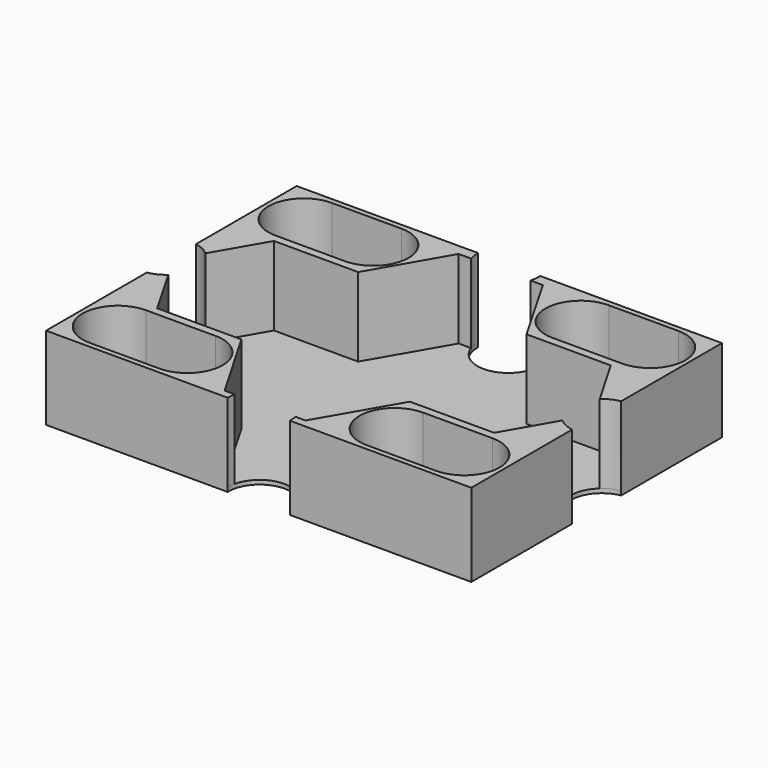
from build123d import *

# Parameters (mm, degrees)
SKETCH003_W          = 205
SKETCH003_H          = 151
PAD001_DEPTH         = 40
POCKET002_DEPTH      = 38
SKETCH005_R          = 15
POCKET003_DEPTH      = 2.001
POCKET003_DEPTH_BACK = 38.001
POCKET004_DEPTH      = 38


with BuildPart() as part:
    # Sketch003 → Pad001 (new body)
    with BuildSketch(Plane.XY):
        Rectangle(SKETCH003_W, SKETCH003_H)
    extrude(amount=PAD001_DEPTH)

    # Sketch004 (on Face6 of Pad001) → Pocket002 (cut)
    with BuildSketch(Plane.XY.offset(40)):
        Polygon((-101.5, 0), (-81.2, 35.160631), (-40.6, 35.160631), (-20.3, 70.321263), (20.3, 70.321263), (40.6, 35.160631), (81.2, 35.160631), (101.5, 0), (81.2, -35.160631), (40.6, -35.160631), (19.516262, -71.678737), (-19.516262, -71.678737), (-40.6, -35.160631), (-81.2, -35.160631), align=None)
    extrude(amount=-POCKET002_DEPTH, mode=Mode.SUBTRACT)

    # Sketch005 → Pocket003 (cut, two sides)
    with BuildSketch(Plane.XY.offset(2)) as pocket003_sk:
        with Locations((105, 0)):
            Circle(SKETCH005_R)
        with Locations((0, 75)):
            Circle(SKETCH005_R)
        with Locations((0, -75)):
            Circle(SKETCH005_R)
        with Locations((-105, 0)):
            Circle(SKETCH005_R)
    extrude(amount=-POCKET003_DEPTH, mode=Mode.SUBTRACT)
    extrude(pocket003_sk.sketch, amount=POCKET003_DEPTH_BACK, mode=Mode.SUBTRACT)

    # Sketch006 (on Face6 of Pad001) → Pocket004 (cut)
    with BuildSketch(Plane.XY.offset(40)):
        with BuildLine():
            ThreePointArc((-83.5, -39), (-100.5, -56), (-83.5, -73))
            Line((-83.5, -73), (-50, -73))
            ThreePointArc((-50, -73), (-33, -56), (-50, -39))
            Line((-50, -39), (-83.5, -39))
        make_face()
        with BuildLine():
            ThreePointArc((50, -39), (33, -56), (50, -73))
            Line((50, -73), (83.5, -73))
            ThreePointArc((83.5, -73), (100.5, -56), (83.5, -39))
            Line((83.5, -39), (50, -39))
        make_face()
        with BuildLine():
            ThreePointArc((50, 73), (33, 56), (50, 39))
            Line((50, 39), (83.5, 39))
            ThreePointArc((83.5, 39), (100.5, 56), (83.5, 73))
            Line((83.5, 73), (50, 73))
        make_face()
        with BuildLine():
            ThreePointArc((-83.5, 73), (-100.5, 56), (-83.5, 39))
            Line((-83.5, 39), (-50, 39))
            ThreePointArc((-50, 39), (-33, 56), (-50, 73))
            Line((-50, 73), (-83.5, 73))
        make_face()
    extrude(amount=-POCKET004_DEPTH, mode=Mode.SUBTRACT)


with BuildPart() as part_1:
    # Body001 placement: moved
    add(part.part.moved(Location((100, -60, 0))))


solid = part_1.part
